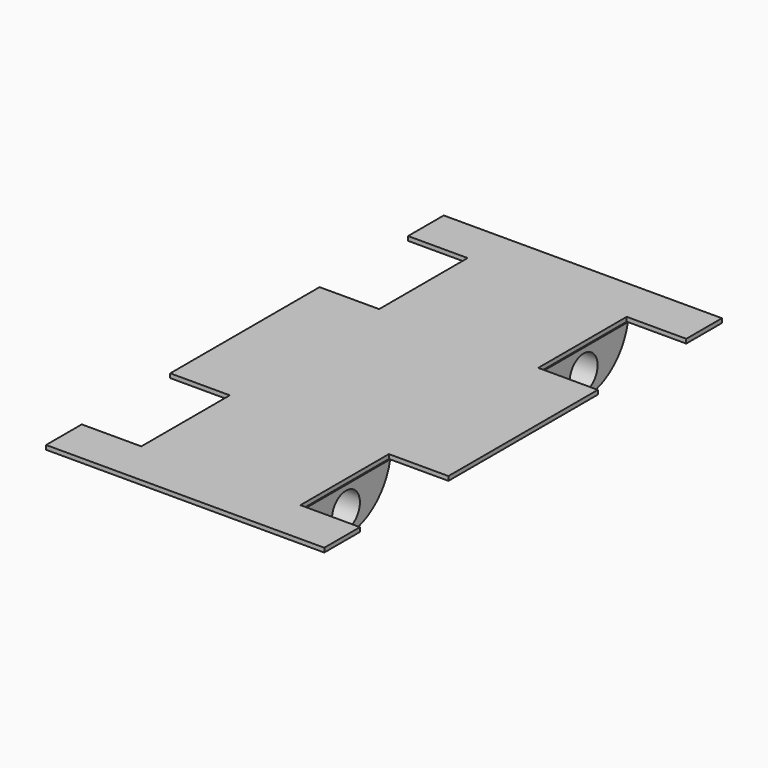
from build123d import *

# Parameters (mm, degrees)
F1_DEPTH = 0.5
F2_R     = 2.047791
F3_DEPTH = 9.5


with BuildPart() as f1:
    # F0 (on Top) → F1 (new body)
    with BuildSketch(Plane.XY):
        Polygon((16.35, 29.214), (-16.35, 29.214), (-16.35, 23.9715), (-9.35, 23.9715), (-9.35, 10.9715), (-16.35, 10.9715), (-16.35, 0), (-16.35, -10.9715), (-9.35, -10.9715), (-9.35, -23.9715), (-16.35, -23.9715), (-16.35, -29.214), (16.35, -29.214), (16.35, -23.9715), (9.35, -23.9715), (9.35, -10.9715), (16.35, -10.9715), (16.35, 0), (16.35, 10.9715), (9.35, 10.9715), (9.35, 23.9715), (16.35, 23.9715), align=None)
    extrude(amount=F1_DEPTH)

    # F2 (on Right) → F3 (join, symmetric)
    with BuildSketch(Plane.YZ):
        with BuildLine():
            Line((23.961247, 0), (10.961247, 0))
            ThreePointArc((10.961247, 0), (17.461247, -5.333223), (23.961247, 0))
        make_face()
        with Locations((17.461247, -2.643129)):
            Circle(F2_R, mode=Mode.SUBTRACT)
        with BuildLine():
            ThreePointArc((-23.961247, 0), (-17.461247, -5.333223), (-10.961247, 0))
            Line((-10.961247, 0), (-23.961247, 0))
        make_face()
        with Locations((-17.461247, -2.643129)):
            Circle(F2_R, mode=Mode.SUBTRACT)
    extrude(amount=F3_DEPTH, both=True)


solid = f1.part
